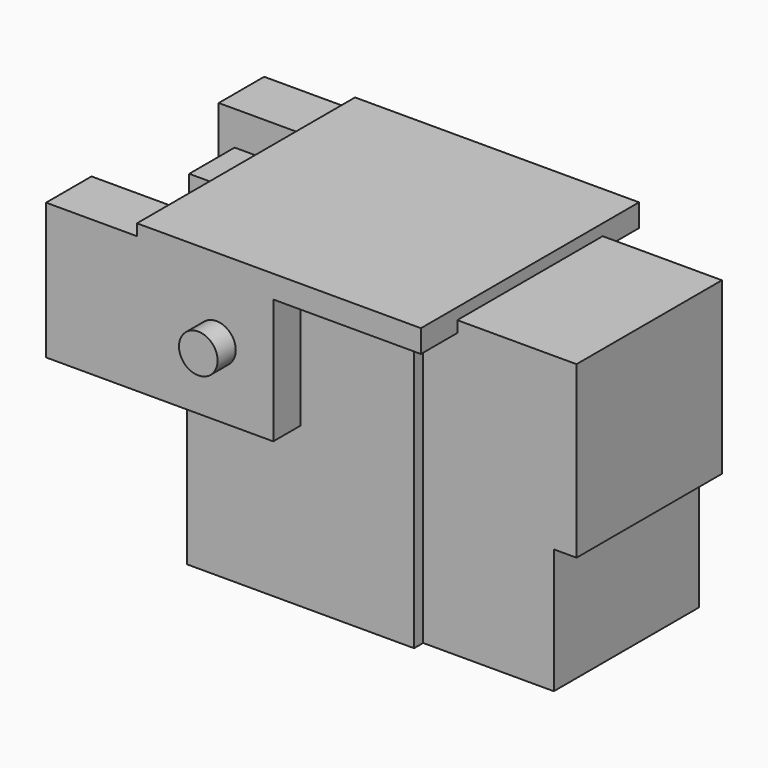
from build123d import *

# Parameters (mm, degrees)
BOX050_W               = 25
BOX050_H               = 16
BOX050_DEPTH           = 15
BOX048_W               = 25
BOX048_H               = 24
BOX048_DEPTH           = 2
BOX043_W               = 20
BOX043_H               = 5
BOX043_DEPTH           = 12
CYLINDER020_R          = 1.7
CYLINDER020_DEPTH      = 30
CYLINDER020_ROLL_ANGLE = 90
BOX047_W               = 20
BOX047_H               = 2
BOX047_DEPTH           = 26
BOX046_W               = 20
BOX046_H               = 2
BOX046_DEPTH           = 26
BOX045_W               = 20
BOX045_H               = 5
BOX045_DEPTH           = 12
BOX044_W               = 20
BOX044_H               = 5
BOX044_DEPTH           = 12
BOX049_W               = 25
BOX049_H               = 16
BOX049_DEPTH           = 15


with BuildPart() as cube025:
    # Box050 → Box050 (new body)
    with BuildSketch(Plane(origin=(-24, -8, 11), x_dir=(1, 0, 0), z_dir=(0, 0, 1))):
        with Locations((12.5, 8)):
            Rectangle(BOX050_W, BOX050_H)
    extrude(amount=BOX050_DEPTH)


with BuildPart() as cube023:
    # Box048 → Box048 (new body)
    with BuildSketch(Plane(origin=(-34.5, -12, 25), x_dir=(1, 0, 0), z_dir=(0, 0, 1))):
        with Locations((12.5, 12)):
            Rectangle(BOX048_W, BOX048_H)
    extrude(amount=BOX048_DEPTH)


with BuildPart() as cube018:
    # Box043 → Box043 (new body)
    with BuildSketch(Plane(origin=(-37.5, -2.5, 14), x_dir=(1, 0, 0), z_dir=(0, 0, 1))):
        with Locations((10, 2.5)):
            Rectangle(BOX043_W, BOX043_H)
    extrude(amount=BOX043_DEPTH)


with BuildPart() as fusion009:
    # Cylinder020 → Cylinder020 (new body)
    with BuildSketch(Plane.XY):
        Circle(CYLINDER020_R)
    extrude(amount=CYLINDER020_DEPTH)


with BuildPart() as fusion009_1:
    # Cylinder020 roll: moved
    add(fusion009.part.rotate(Axis((0, 0, 0), (1, 0, 0)), CYLINDER020_ROLL_ANGLE))


with BuildPart() as fusion009_2:
    # Cylinder020 placement: moved
    add(fusion009_1.part.moved(Location((-27.5, 16, 20))))

    # Fusion009: union Cube018
    add(cube018.part)


with BuildPart() as fusion010:
    # Box047 → Box047 (new body)
    with BuildSketch(Plane(origin=(-32.5, 7, 0), x_dir=(1, 0, 0), z_dir=(0, 0, 1))):
        with Locations((10, 1)):
            Rectangle(BOX047_W, BOX047_H)
    extrude(amount=BOX047_DEPTH)

    # Fusion010: union Fusion009
    add(fusion009_2.part)


with BuildPart() as fusion011:
    # Box046 → Box046 (new body)
    with BuildSketch(Plane(origin=(-32.5, -9, 0), x_dir=(1, 0, 0), z_dir=(0, 0, 1))):
        with Locations((10, 1)):
            Rectangle(BOX046_W, BOX046_H)
    extrude(amount=BOX046_DEPTH)

    # Fusion011: union Fusion010
    add(fusion010.part)


with BuildPart() as fusion012:
    # Box045 → Box045 (new body)
    with BuildSketch(Plane(origin=(-42.5, 7, 14), x_dir=(1, 0, 0), z_dir=(0, 0, 1))):
        with Locations((10, 2.5)):
            Rectangle(BOX045_W, BOX045_H)
    extrude(amount=BOX045_DEPTH)

    # Fusion012: union Fusion011
    add(fusion011.part)


with BuildPart() as fusion014:
    # Box044 → Box044 (new body)
    with BuildSketch(Plane(origin=(-42.5, -12, 14), x_dir=(1, 0, 0), z_dir=(0, 0, 1))):
        with Locations((10, 2.5)):
            Rectangle(BOX044_W, BOX044_H)
    extrude(amount=BOX044_DEPTH)

    # Fusion013: union Fusion012
    add(fusion012.part)

    # Fusion014: union Cube023
    add(cube023.part)


with BuildPart() as fusion016:
    # Box049 → Box049 (new body)
    with BuildSketch(Plane(origin=(-26, -8, 0), x_dir=(1, 0, 0), z_dir=(0, 0, 1))):
        with Locations((12.5, 8)):
            Rectangle(BOX049_W, BOX049_H)
    extrude(amount=BOX049_DEPTH)

    # Fusion015: union Fusion014
    add(fusion014.part)

    # Fusion016: union Cube025
    add(cube025.part)


solid = fusion016.part
